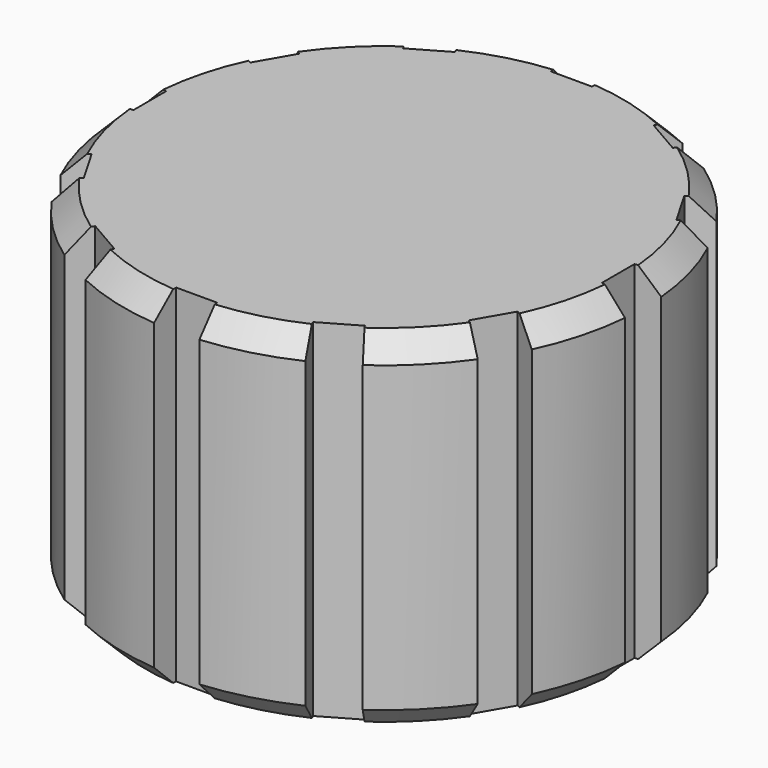
from build123d import *

# Parameters (mm, degrees)
SKETCH002_R        = 12
PAD002_DEPTH       = 16
CHAMFER_SIZE       = 1
POCKET_DEPTH       = 75.047652
POCKET_DEPTH_BACK  = 91.047652
POLARPATTERN_COUNT = 12
SKETCH_R           = 5
POCKET001_DEPTH    = 5.6
POCKET002_DEPTH    = 14


with BuildPart() as part:
    # Sketch002 → Pad002 (new body)
    with BuildSketch(Plane.XY):
        Circle(SKETCH002_R)
    extrude(amount=PAD002_DEPTH)

    # Chamfer
    chamfer_edges = [part.edges().sort_by_distance(p)[0] for p in [
        (-12, 0, 16),
        (-12, 0, 0),
    ]]
    chamfer(chamfer_edges, length=CHAMFER_SIZE)

    # Sketch003 → Pocket (cut, two sides)
    with BuildSketch(Plane.XY) as pocket_sk:
        Polygon((-1.058613, 12.1), (-0.944878, 10.8), (0.944878, 10.8), (1.058613, 12.1), align=None)
    pocket = extrude(amount=-POCKET_DEPTH, mode=Mode.SUBTRACT) + extrude(pocket_sk.sketch, amount=POCKET_DEPTH_BACK, mode=Mode.SUBTRACT)

    # PolarPattern: Pocket ×12 about axis
    polarpattern_axis = Axis((0, 0, 0), (0, 0, 1))
    for i in range(1, POLARPATTERN_COUNT):
        add(pocket.rotate(polarpattern_axis, i * 360 / POLARPATTERN_COUNT), mode=Mode.SUBTRACT)

    # Sketch → Pocket001 (cut)
    with BuildSketch(Plane.XY):
        Circle(SKETCH_R)
    extrude(amount=POCKET001_DEPTH, mode=Mode.SUBTRACT)

    # Sketch004 → Pocket002 (cut)
    with BuildSketch(Plane.XY):
        with BuildLine():
            ThreePointArc((-1.55, -2.626785), (3.05, 0), (-1.55, 2.626785))
            Line((-1.55, 2.626785), (-1.55, -2.626785))
        make_face()
    extrude(amount=POCKET002_DEPTH, mode=Mode.SUBTRACT)


solid = part.part
